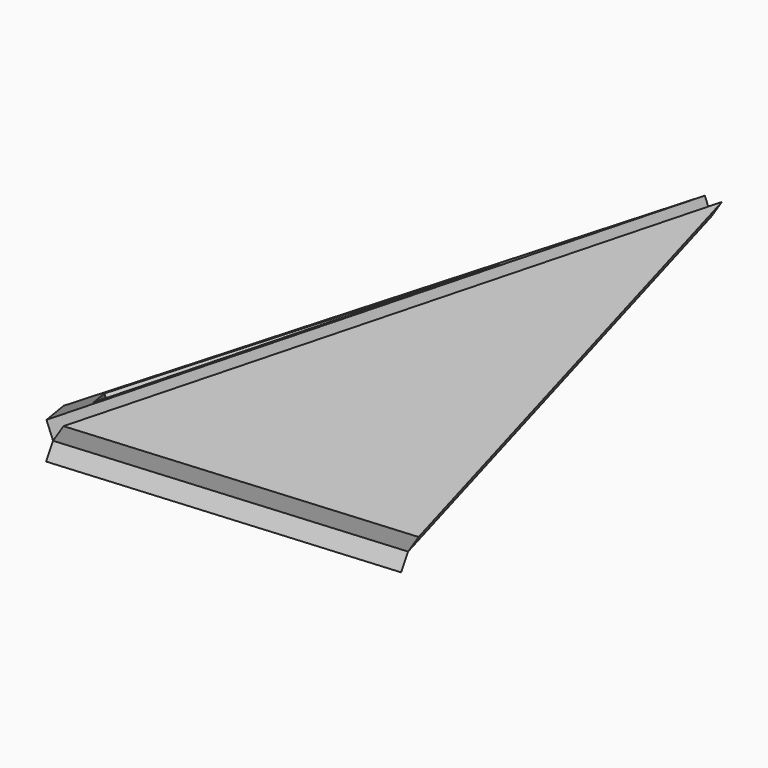
from build123d import *

# Parameters (mm, degrees)
F6_DEPTH  = 3.175
F10_DEPTH = 3.175
F12_DEPTH = 43.844599


with BuildPart() as f6:
    # F5 (on face) → F6 (new body)
    with BuildSketch(Plane(origin=(10.820237, 3.097301, 18.583808), x_dir=(0.867162, -0.081875, -0.49125), z_dir=(0.498027, 0.142561, 0.855363))):
        Polygon((23.610983, 42.487504), (-12.477761, 150.326434), (-12.477761, -4.175734), align=None)
    extrude(amount=F6_DEPTH)


with BuildPart() as f7_1:
    # F7: instance of F6
    add(f6.part.mirror(Plane.YZ))


with BuildPart() as f10:
    # F9 (on face) → F10 (new body)
    with BuildSketch(Plane(origin=(0, 11.113549, 18.846464), x_dir=(1, 0, 0), z_dir=(0, -0.50795, -0.861387))):
        Polygon((0, -37.102991), (31.294778, -37.102991), (0, 12.90193), (-31.294778, -37.102991), align=None)
    extrude(amount=F10_DEPTH)


with BuildPart() as f12_tool:
    # F11 (on face) → F12 (new body, through all)
    with BuildSketch(Plane(origin=(-12.401471, 3.549931, 21.299586), x_dir=(0.867162, 0.081875, 0.49125), z_dir=(-0.498027, 0.142561, 0.855363))):
        Polygon((6.127762, 14.414545), (6.127762, 111.342477), (-16.512744, 43.689029), align=None)
    extrude(amount=-F12_DEPTH)


with BuildPart() as f7_1_1:
    add(f7_1.part)

    # F12: cut by f12_tool
    add(f12_tool.part, mode=Mode.SUBTRACT)


with BuildPart() as f10_1:
    add(f10.part)

    # F12: cut by f12_tool
    add(f12_tool.part, mode=Mode.SUBTRACT)


solid = Compound([f6.part, f7_1_1.part, f10_1.part])
